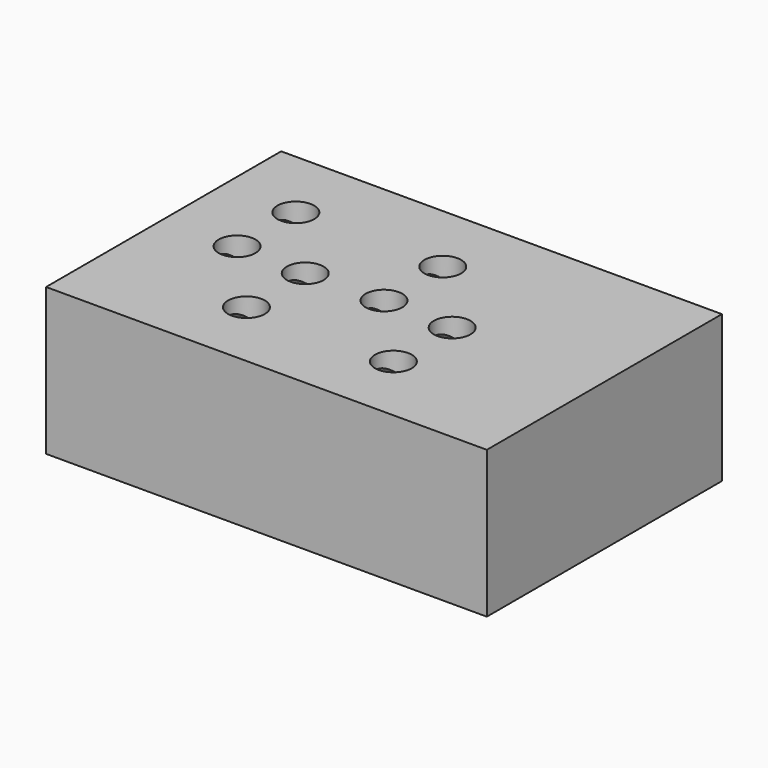
from build123d import *

# Parameters (mm, degrees)
F0_W     = 200
F0_H     = 100
F1_DEPTH = 300
F2_R     = 12.5
F3_DEPTH = 225
F4_R     = 12.5
F5_DEPTH = 25


with BuildPart() as f1:
    # F0 (on Right) → F1 (new body)
    with BuildSketch(Plane.YZ):
        with Locations((0, 50)):
            Rectangle(F0_W, F0_H)
    extrude(amount=F1_DEPTH)

    # F2 (on face) → F3 (cut)
    with BuildSketch(Plane(origin=(0, 0, 0), x_dir=(0, -1, 0), z_dir=(-1, 0, 0))):
        with Locations((-50, 78.169286)):
            Circle(F2_R)
        with Locations((0, 78.169286)):
            Circle(F2_R)
        with Locations((50, 78.169286)):
            Circle(F2_R)
    extrude(amount=-F3_DEPTH, mode=Mode.SUBTRACT)

    # F4 (on face) → F5 (cut)
    with BuildSketch(Plane.XY.offset(100)):
        with Locations((50, 50)):
            Circle(F4_R)
        with Locations((50, 0)):
            Circle(F4_R)
        with Locations((150, 50)):
            Circle(F4_R)
        with Locations((150, 0)):
            Circle(F4_R)
        with Locations((97.727001, -1.656403)):
            Circle(F4_R)
        with Locations((97.727001, -51.656403)):
            Circle(F4_R)
        with Locations((197.727001, -1.656403)):
            Circle(F4_R)
        with Locations((197.727001, -51.656403)):
            Circle(F4_R)
    extrude(amount=-F5_DEPTH, mode=Mode.SUBTRACT)


solid = f1.part
